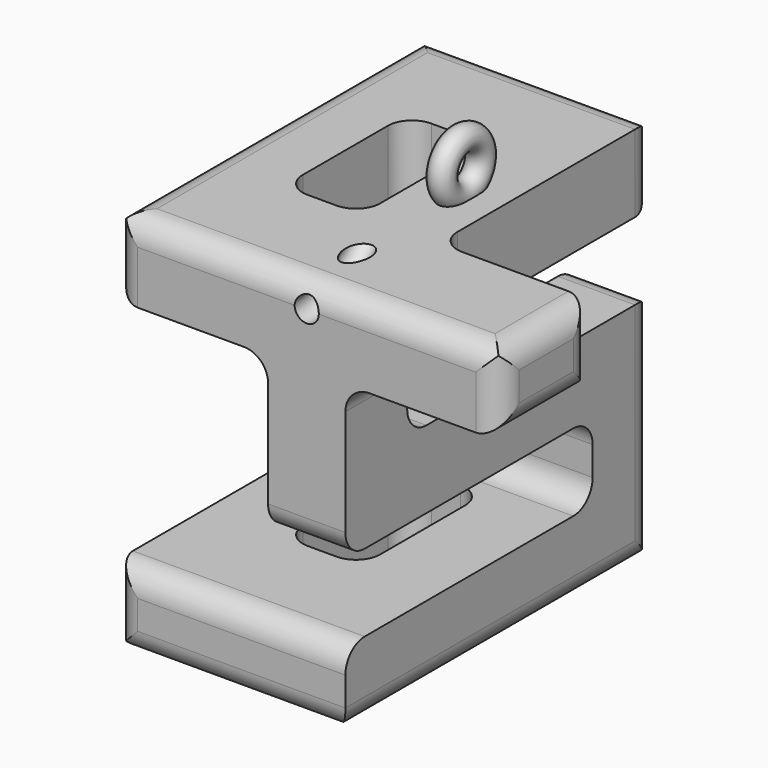
from build123d import *

# Parameters (mm, degrees)
F0_W     = 50.8
F0_H     = 50.8
F1_DEPTH = 50.8
F3_DEPTH = 50.801
F7_DEPTH = 50.801
F9_DEPTH = 50.801
F11_R    = 1.5875


with BuildPart() as f1:
    # F0 (on Front) → F1 (new body)
    with BuildSketch(Plane.XZ):
        with Locations((25.4, 25.4)):
            Rectangle(F0_W, F0_H)
    extrude(amount=F1_DEPTH)

    # F2 (on face) → F3 (cut, through all)
    with BuildSketch(Plane.YZ.offset(50.8)):
        with BuildLine():
            Line((0, 27.305), (0, 43.815))
            ThreePointArc((0, 43.815), (-0.9299359697, 41.5699359697), (-3.175, 40.64))
            Line((-3.175, 40.64), (-37.465, 40.64))
            ThreePointArc((-37.465, 40.64), (-39.7100640303, 39.7100640303), (-40.64, 37.465))
            Line((-40.64, 37.465), (-40.64, 33.655))
            ThreePointArc((-40.64, 33.655), (-39.7100640303, 31.4099359697), (-37.465, 30.48))
            Line((-37.465, 30.48), (-3.175, 30.48))
            ThreePointArc((-3.175, 30.48), (-0.9299359697, 29.5500640303), (0, 27.305))
        make_face()
        with BuildLine():
            ThreePointArc((-47.625, 20.32), (-49.8700640303, 21.2499359697), (-50.8, 23.495))
            Line((-50.8, 23.495), (-50.8, 6.985))
            ThreePointArc((-50.8, 6.985), (-49.8700640303, 9.2300640303), (-47.625, 10.16))
            Line((-47.625, 10.16), (-13.335, 10.16))
            ThreePointArc((-13.335, 10.16), (-11.0899359697, 11.0899359697), (-10.16, 13.335))
            Line((-10.16, 13.335), (-10.16, 17.145))
            ThreePointArc((-10.16, 17.145), (-11.0899359697, 19.3900640303), (-13.335, 20.32))
            Line((-13.335, 20.32), (-47.625, 20.32))
        make_face()
        with BuildLine():
            Line((0, 50.8), (-3.175, 50.8))
            ThreePointArc((-3.175, 50.8), (-0.9299359697, 49.8700640303), (0, 47.625))
            Line((0, 47.625), (0, 50.8))
        make_face()
        with BuildLine():
            ThreePointArc((-50.8, 47.625), (-49.8700640303, 49.8700640303), (-47.625, 50.8))
            Line((-47.625, 50.8), (-50.8, 50.8))
            Line((-50.8, 50.8), (-50.8, 47.625))
        make_face()
        with BuildLine():
            Line((0, 0), (0, 3.175))
            ThreePointArc((0, 3.175), (-0.9299359697, 0.9299359697), (-3.175, 0))
            Line((-3.175, 0), (0, 0))
        make_face()
        with BuildLine():
            ThreePointArc((-47.625, 0), (-49.8700640303, 0.9299359697), (-50.8, 3.175))
            Line((-50.8, 3.175), (-50.8, 0))
            Line((-50.8, 0), (-47.625, 0))
        make_face()
    extrude(amount=-F3_DEPTH, mode=Mode.SUBTRACT)

    # F6 (on offset) → F7 (cut, through all)
    with BuildSketch(Plane.XZ.offset(50.8)):
        with BuildLine():
            ThreePointArc((3.175, 40.64), (0.9299359697, 41.5699359697), (0, 43.815))
            Line((0, 43.815), (0, 17.145))
            ThreePointArc((0, 17.145), (0.9299359697, 19.3900640303), (3.175, 20.32))
            Line((3.175, 20.32), (6.985, 20.32))
            ThreePointArc((6.985, 20.32), (9.2300640303, 19.3900640303), (10.16, 17.145))
            Line((10.16, 17.145), (10.16, 13.335))
            ThreePointArc((10.16, 13.335), (11.0899359697, 11.0899359697), (13.335, 10.16))
            Line((13.335, 10.16), (17.145, 10.16))
            ThreePointArc((17.145, 10.16), (19.3900640303, 11.0899359697), (20.32, 13.335))
            Line((20.32, 13.335), (20.32, 37.465))
            ThreePointArc((20.32, 37.465), (19.3900640303, 39.7100640303), (17.145, 40.64))
            Line((17.145, 40.64), (3.175, 40.64))
        make_face()
        with BuildLine():
            Line((50.8, 50.8), (47.625, 50.8))
            ThreePointArc((47.625, 50.8), (49.8700640303, 49.8700640303), (50.8, 47.625))
            Line((50.8, 47.625), (50.8, 50.8))
        make_face()
        with BuildLine():
            Line((50.8, 0), (50.8, 43.815))
            ThreePointArc((50.8, 43.815), (49.8700640303, 41.5699359697), (47.625, 40.64))
            Line((47.625, 40.64), (33.655, 40.64))
            ThreePointArc((33.655, 40.64), (31.4099359697, 39.7100640303), (30.48, 37.465))
            Line((30.48, 37.465), (30.48, 3.175))
            ThreePointArc((30.48, 3.175), (29.5500640303, 0.9299359697), (27.305, 0))
            Line((27.305, 0), (50.8, 0))
        make_face()
        with BuildLine():
            ThreePointArc((3.175, 0), (0.9299359697, 0.9299359697), (0, 3.175))
            Line((0, 3.175), (0, 0))
            Line((0, 0), (3.175, 0))
        make_face()
        with BuildLine():
            Line((0, 50.8), (0, 47.625))
            ThreePointArc((0, 47.625), (0.9299359697, 49.8700640303), (3.175, 50.8))
            Line((3.175, 50.8), (0, 50.8))
        make_face()
    extrude(amount=-F7_DEPTH, mode=Mode.SUBTRACT)

    # F8 (on offset) → F9 (cut, through all)
    with BuildSketch(Plane.XY.offset(50.8)):
        with BuildLine():
            ThreePointArc((3.175, -50.8), (0.9299359697, -49.8700640303), (0, -47.625))
            Line((0, -47.625), (0, -50.8))
            Line((0, -50.8), (3.175, -50.8))
        make_face()
        with BuildLine():
            Line((0, 0), (0, -3.175))
            ThreePointArc((0, -3.175), (0.9299359697, -0.9299359697), (3.175, 0))
            Line((3.175, 0), (0, 0))
        make_face()
        with BuildLine():
            ThreePointArc((50.8, -47.625), (49.8700640303, -49.8700640303), (47.625, -50.8))
            Line((47.625, -50.8), (50.8, -50.8))
            Line((50.8, -50.8), (50.8, -47.625))
        make_face()
        with BuildLine():
            ThreePointArc((17.145, -35.56), (19.3900640303, -34.6300640303), (20.32, -32.385))
            Line((20.32, -32.385), (20.32, -18.415))
            ThreePointArc((20.32, -18.415), (19.3900640303, -16.1699359697), (17.145, -15.24))
            Line((17.145, -15.24), (13.335, -15.24))
            ThreePointArc((13.335, -15.24), (11.0899359697, -16.1699359697), (10.16, -18.415))
            Line((10.16, -18.415), (10.16, -32.385))
            ThreePointArc((10.16, -32.385), (11.0899359697, -34.6300640303), (13.335, -35.56))
            Line((13.335, -35.56), (17.145, -35.56))
        make_face()
        with BuildLine():
            Line((50.8, 0), (27.305, 0))
            ThreePointArc((27.305, 0), (29.5500640303, -0.9299359697), (30.48, -3.175))
            Line((30.48, -3.175), (30.48, -32.385))
            ThreePointArc((30.48, -32.385), (31.4099359697, -34.6300640303), (33.655, -35.56))
            Line((33.655, -35.56), (47.625, -35.56))
            ThreePointArc((47.625, -35.56), (49.8700640303, -36.4899359697), (50.8, -38.735))
            Line((50.8, -38.735), (50.8, 0))
        make_face()
    extrude(amount=-F9_DEPTH, mode=Mode.SUBTRACT)

    # F11 (on offset) → F12 (revolve)
    with BuildSketch(Plane.XZ.offset(25.4)):
        with Locations((25.4, 50.8)):
            Circle(F11_R)
    revolve(axis=Axis((30.3972233087, -25.4, 53.975), (1, 0, 0)))

    # F13 (on face) → F14 (revolve, cut)
    with BuildSketch(Plane.XZ.offset(50.8)):
        with BuildLine():
            Line((23.8125, 47.625), (26.9875, 47.625))
            ThreePointArc((26.9875, 47.625), (25.4, 49.2125), (23.8125, 47.625))
        make_face()
        with BuildLine():
            ThreePointArc((23.8125, 47.625), (25.4, 46.0375), (26.9875, 47.625))
            Line((26.9875, 47.625), (23.8125, 47.625))
        make_face()
    revolve(axis=Axis((27.5035649538, -50.8, 60.325), (1, 0, 0)), mode=Mode.SUBTRACT)


solid = f1.part
